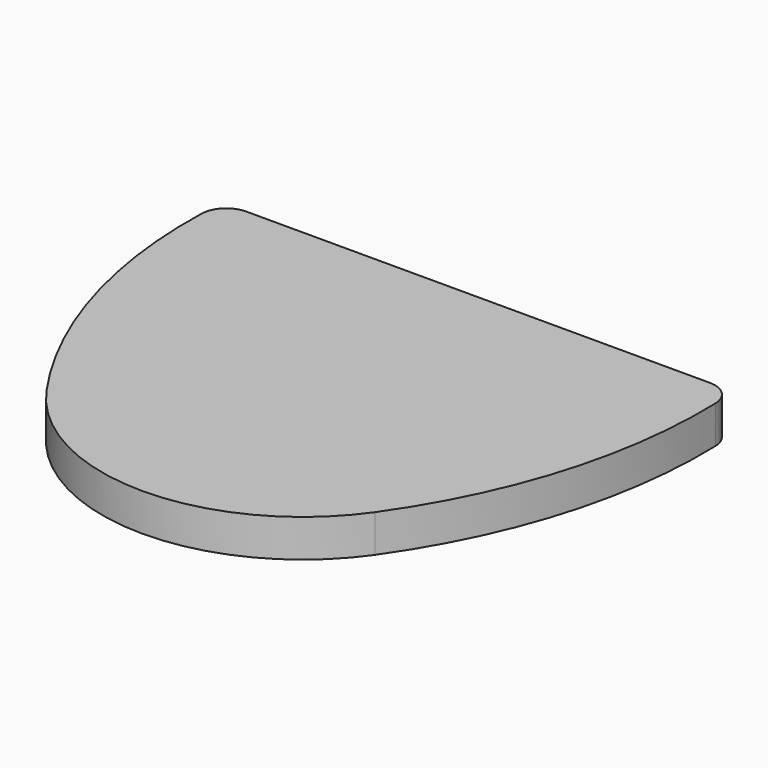
from build123d import *

# Parameters (mm, degrees)
F1_DEPTH = 3


with BuildPart() as f1:
    # F0 (on Top) → F1 (new body)
    with BuildSketch(Plane.XY):
        with BuildLine():
            Line((0, 0), (-18.5, 0))
            ThreePointArc((-18.5, 0), (-19.892913, -0.564802), (-20.499106, -1.940207))
            ThreePointArc((-20.499106, -1.940207), (-18.801318, -14.903789), (-13.108843, -26.67378))
            ThreePointArc((-13.108843, -26.67378), (0, -33.5), (13.108843, -26.67378))
            ThreePointArc((13.108843, -26.67378), (18.801318, -14.903789), (20.499106, -1.940207))
            ThreePointArc((20.499106, -1.940207), (19.892913, -0.564802), (18.5, 0))
            Line((18.5, 0), (0, 0))
        make_face()
    extrude(amount=F1_DEPTH)


solid = f1.part
